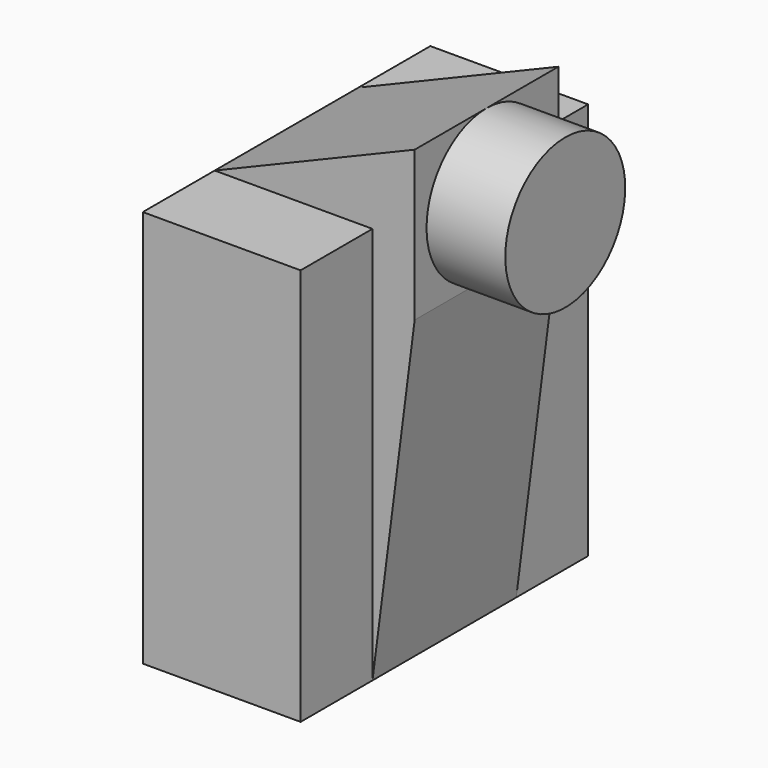
from build123d import *

# Parameters (mm, degrees)
F0_W     = 44.604034
F0_H     = 112.379104
F1_DEPTH = 50.8
F0_W_2   = 22.251427
F0_H_2   = 21.191836
F3_DEPTH = 25.4


with BuildPart() as f1:
    # F0 (on Front) → F1 (new body, symmetric)
    with BuildSketch(Plane.XZ):
        Rectangle(F0_W, F0_H)
    extrude(amount=F1_DEPTH, both=True)


with BuildPart() as f2:
    # F0 (on Front) → F2 (revolve)
    with BuildSketch(Plane.XZ):
        with Locations((45.348137, 69.169551)):
            Rectangle(F0_W_2, F0_H_2)
    revolve(axis=Axis((45.348138, 0, 58.573633), (1, 0, 0)))


with BuildPart() as f3:
    # F0 (on Front) → F3 (new body, symmetric)
    with BuildSketch(Plane.XZ):
        Polygon((34.222424, 79.765469), (22.302017, 56.189552), (22.302017, -56.189552), (34.222424, 37.381798), (34.222424, 58.573633), align=None)
        Polygon((-22.302017, 56.189552), (22.302017, 56.189552), (34.222424, 79.765469), align=None)
    extrude(amount=F3_DEPTH, both=True)


solid = Compound([f1.part, f2.part, f3.part])
